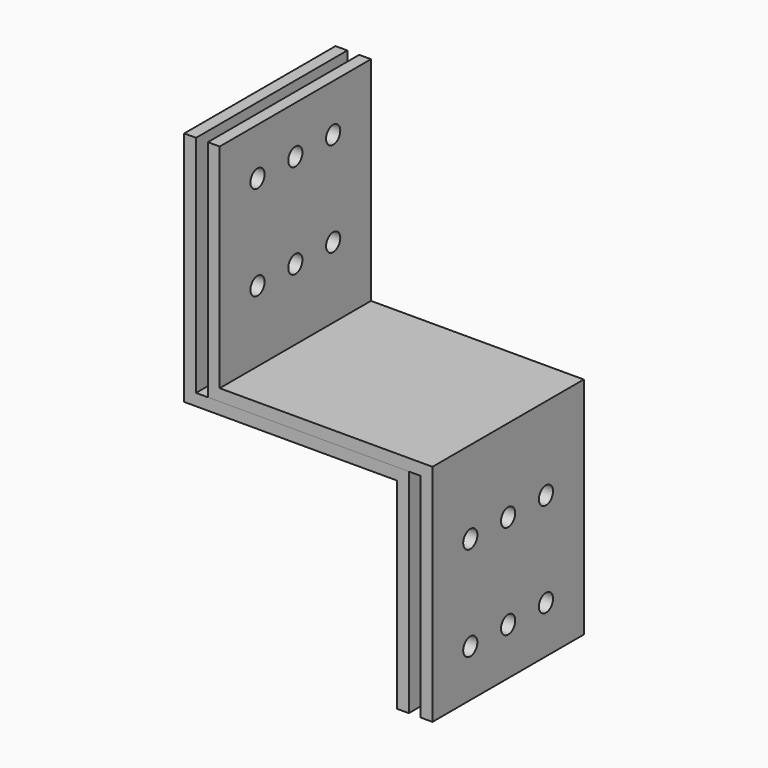
from build123d import *

# Parameters (mm, degrees)
F1_DEPTH = 50.8
F3_DEPTH = 50.8
F4_R     = 4.7625
F5_DEPTH = 133.351


with BuildPart() as f1:
    # F0 (on Front) → F1 (new body, symmetric)
    with BuildSketch(Plane.XZ):
        Polygon((-5.980001, 5.443229), (-5.980001, -102.506771), (0.369999, -102.506771), (0.369999, 11.793229), (-113.930001, 11.793229), (-113.930001, 132.443229), (-120.280001, 132.443229), (-120.280001, 5.443229), align=None)
    extrude(amount=F1_DEPTH, both=True)


with BuildPart() as f3:
    # F2 (on Front) → F3 (new body, symmetric)
    with BuildSketch(Plane.XZ):
        Polygon((6.719999, 11.793229), (6.719999, -102.506771), (13.069999, -102.506771), (13.069999, 18.143229), (-101.230001, 18.143229), (-101.230001, 132.443229), (-107.580001, 132.443229), (-107.580001, 11.793229), align=None)
    extrude(amount=F3_DEPTH, both=True)


with BuildPart() as f5_tool:
    # F4 (on face) → F5 (new body, through all)
    with BuildSketch(Plane.YZ.offset(13.069999)):
        with Locations((-25.4, -77.106771)):
            Circle(F4_R)
        with Locations((-25.4, 107.043229)):
            Circle(F4_R)
        with Locations((-25.4, 56.243229)):
            Circle(F4_R)
        with Locations((0, 107.043229)):
            Circle(F4_R)
        with Locations((0, 56.243229)):
            Circle(F4_R)
        with Locations((25.4, 107.043229)):
            Circle(F4_R)
        with Locations((25.4, 56.243229)):
            Circle(F4_R)
        with Locations((-25.4, -26.306771)):
            Circle(F4_R)
        with Locations((0, -77.106771)):
            Circle(F4_R)
        with Locations((0, -26.306771)):
            Circle(F4_R)
        with Locations((25.4, -77.106771)):
            Circle(F4_R)
        with Locations((25.4, -26.306771)):
            Circle(F4_R)
    extrude(amount=-F5_DEPTH)


with BuildPart() as f1_1:
    add(f1.part)

    # F5: cut by f5_tool
    add(f5_tool.part, mode=Mode.SUBTRACT)


with BuildPart() as f3_1:
    add(f3.part)

    # F5: cut by f5_tool
    add(f5_tool.part, mode=Mode.SUBTRACT)


solid = Compound([f1_1.part, f3_1.part])
